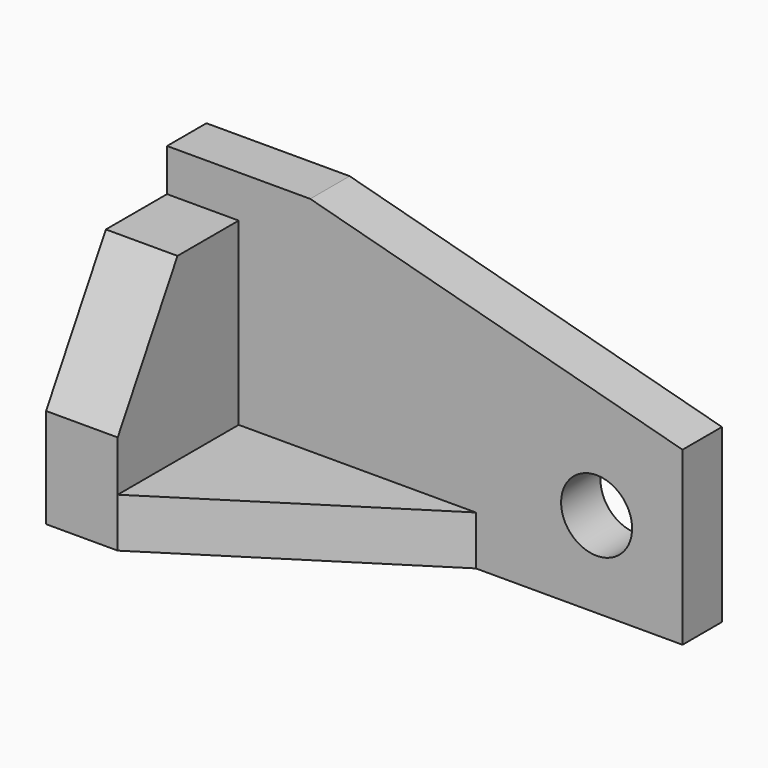
from build123d import *

# Parameters (mm, degrees)
F1_DEPTH = 10.922
F2_W     = 15.883246
F2_H     = 50.8
F3_DEPTH = 33.528
F5_DEPTH = 25.4
F6_W     = 52.578
F6_H     = 10.922
F7_DEPTH = 33.528
F9_DEPTH = 25.4
F11_D    = 15.748


with BuildPart() as f1:
    # F0 (on Front) → F1 (new body)
    with BuildSketch(Plane.XZ):
        Polygon((-25.4, 29.59481), (-57.15, 29.59481), (-57.15, -30.60319), (57.15, -30.60319), (57.15, 7.475605), align=None)
    extrude(amount=F1_DEPTH)

    # F2 (on face) → F3 (join)
    with BuildSketch(Plane.XZ.offset(10.922)):
        with Locations((-49.208377, -5.20319)):
            Rectangle(F2_W, F2_H)
    extrude(amount=F3_DEPTH)

    # F4 (on face) → F5 (cut)
    with BuildSketch(Plane.YZ.offset(-41.266754)):
        Polygon((-44.45, -8.50519), (-27.878893, 20.19681), (-44.45, 20.19681), align=None)
    extrude(amount=-F5_DEPTH, mode=Mode.SUBTRACT)

    # F6 (on face) → F7 (join)
    with BuildSketch(Plane.XZ.offset(10.922)):
        with Locations((-14.977754, -25.14219)):
            Rectangle(F6_W, F6_H)
    extrude(amount=F7_DEPTH)

    # F8 (on face) → F9 (cut)
    with BuildSketch(Plane.XY.offset(-19.68119)):
        Polygon((11.311246, -10.922), (-41.266754, -44.45), (11.311246, -44.45), align=None)
    extrude(amount=-F9_DEPTH, mode=Mode.SUBTRACT)

    # F11 (through all)
    with Locations(Plane.XZ.offset(10.922)):
        with Locations((38.1, -11.55319)):
            Hole(F11_D / 2)


solid = f1.part
